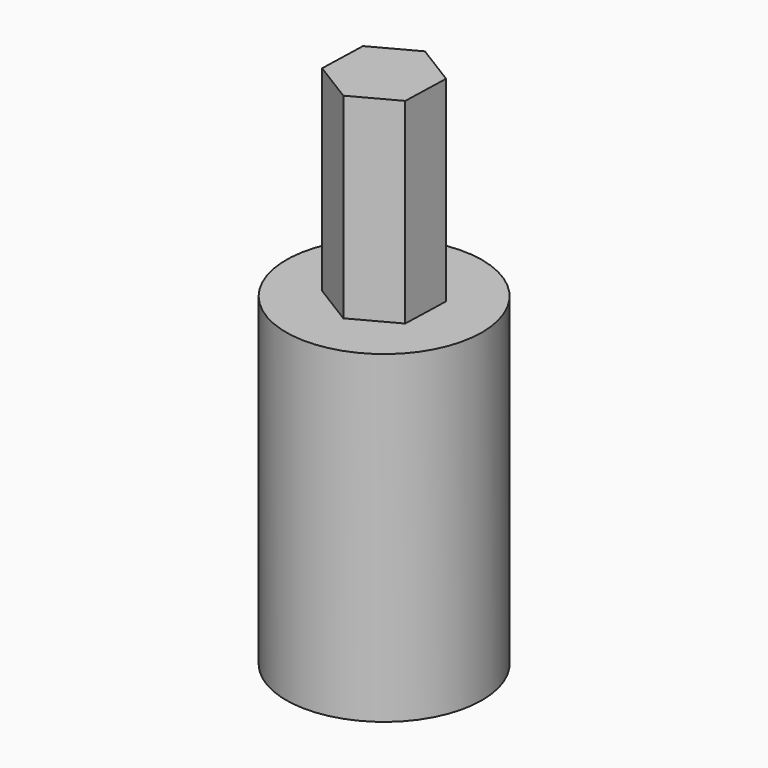
from build123d import *

# Parameters (mm, degrees)
F0_R     = 11.5
F1_DEPTH = 38
F3_DEPTH = 23
F5_DEPTH = 19


with BuildPart() as f1:
    # F0 (on Top) → F1 (new body)
    with BuildSketch(Plane.XY):
        Circle(F0_R)
    extrude(amount=F1_DEPTH)

    # F2 (on face) → F3 (join)
    with BuildSketch(Plane.XY.offset(38)):
        Polygon((5.085656, 2.733027), (0.175957, 5.770821), (-4.909699, 3.037793), (-5.085656, -2.733027), (-0.175957, -5.770821), (4.909699, -3.037793), align=None)
    extrude(amount=F3_DEPTH)

    # F4 (on face) → F5 (cut)
    with BuildSketch(Plane(origin=(0, 0, 0), x_dir=(1, 0, 0), z_dir=(0, 0, -1))):
        Polygon((7.807994, -4.851312), (4.851312, 7.807994), (-7.807994, 4.851312), (-4.851312, -7.807994), align=None)
    extrude(amount=-F5_DEPTH, mode=Mode.SUBTRACT)


solid = f1.part
